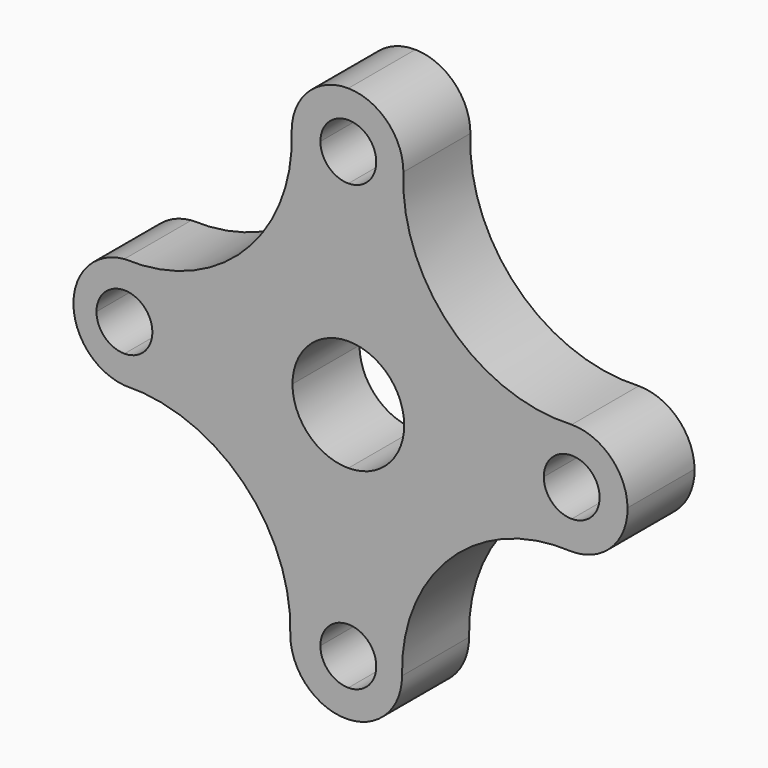
from build123d import *

# Parameters (mm, degrees)
F1_DEPTH = 19.05


with BuildPart() as f1:
    # F0 (on Front) → F1 (new body)
    with BuildSketch(Plane.XZ):
        with BuildLine():
            Line((44.433185, 0), (12.7, 0))
            ThreePointArc((12.7, 0), (8.980256, -8.980256), (0, -12.7))
            Line((0, -12.7), (0, -43.964499))
            ThreePointArc((0, -43.964499), (4.490128, -45.824371), (6.35, -50.314499))
            Line((6.35, -50.314499), (12.214499, -50.314499))
            ThreePointArc((12.214499, -50.314499), (23.286426, -23.137993), (50.783185, -12.887225))
            Line((50.783185, -12.887225), (50.783185, -6.35))
            ThreePointArc((50.783185, -6.35), (46.293057, -4.490128), (44.433185, 0))
        make_face()
        with BuildLine():
            ThreePointArc((0, 12.7), (8.980256, 8.980256), (12.7, 0))
            Line((12.7, 0), (44.433185, 0))
            ThreePointArc((44.433185, 0), (46.293057, 4.490128), (50.783185, 6.35))
            Line((50.783185, 6.35), (50.783185, 12.512775))
            ThreePointArc((50.783185, 12.512775), (23.230066, 23.111098), (12.520352, 50.621112))
            Line((12.520352, 50.621112), (6.35, 50.621112))
            ThreePointArc((6.35, 50.621112), (4.490128, 46.130984), (0, 44.271112))
            Line((0, 44.271112), (0, 12.7))
        make_face()
        with BuildLine():
            ThreePointArc((-12.7, 0), (-8.980256, 8.980256), (0, 12.7))
            Line((0, 12.7), (0, 44.271112))
            ThreePointArc((0, 44.271112), (-4.490128, 46.130984), (-6.35, 50.621112))
            Line((-6.35, 50.621112), (-12.879648, 50.621112))
            ThreePointArc((-12.879648, 50.621112), (-23.542161, 23.261338), (-50.902573, 12.600462))
            Line((-50.902573, 12.600462), (-50.902573, 6.35))
            ThreePointArc((-50.902573, 6.35), (-46.412445, 4.490128), (-44.552573, 0))
            Line((-44.552573, 0), (-12.7, 0))
        make_face()
        with BuildLine():
            Line((0, -43.964499), (0, -12.7))
            ThreePointArc((0, -12.7), (-8.980256, -8.980256), (-12.7, 0))
            Line((-12.7, 0), (-44.552573, 0))
            ThreePointArc((-44.552573, 0), (-46.412445, -4.490128), (-50.902573, -6.35))
            Line((-50.902573, -6.35), (-50.902573, -12.70329))
            ThreePointArc((-50.902573, -12.70329), (-23.898918, -23.34085), (-13.185501, -50.314499))
            Line((-13.185501, -50.314499), (-6.35, -50.314499))
            ThreePointArc((-6.35, -50.314499), (-4.490128, -45.824371), (0, -43.964499))
        make_face()
        with BuildLine():
            Line((50.783185, 12.512775), (50.783185, 6.35))
            ThreePointArc((50.783185, 6.35), (55.273313, 4.490128), (57.133185, 0))
            Line((57.133185, 0), (63.481805, 0))
            ThreePointArc((63.481805, 0), (59.697001, 8.858983), (50.783185, 12.512775))
        make_face()
        with BuildLine():
            ThreePointArc((57.133185, 0), (55.273313, -4.490128), (50.783185, -6.35))
            Line((50.783185, -6.35), (50.783185, -12.887225))
            ThreePointArc((50.783185, -12.887225), (59.829393, -9.101041), (63.481805, 0))
            Line((63.481805, 0), (57.133185, 0))
        make_face()
        with BuildLine():
            Line((-12.879648, 50.621112), (-6.35, 50.621112))
            ThreePointArc((-6.35, 50.621112), (-4.490128, 55.11124), (0, 56.971112))
            Line((0, 56.971112), (0, 63.319841))
            ThreePointArc((0, 63.319841), (-9.096163, 59.66466), (-12.879648, 50.621112))
        make_face()
        with BuildLine():
            ThreePointArc((0, 56.971112), (4.490128, 55.11124), (6.35, 50.621112))
            Line((6.35, 50.621112), (12.520352, 50.621112))
            ThreePointArc((12.520352, 50.621112), (8.8639, 59.537626), (0, 63.319841))
            Line((0, 63.319841), (0, 56.971112))
        make_face()
        with BuildLine():
            Line((12.214499, -50.314499), (6.35, -50.314499))
            ThreePointArc((6.35, -50.314499), (4.490128, -54.804627), (0, -56.664499))
            Line((0, -56.664499), (0, -63.005216))
            ThreePointArc((0, -63.005216), (8.664796, -59.121432), (12.214499, -50.314499))
        make_face()
        with BuildLine():
            ThreePointArc((0, -56.664499), (-4.490128, -54.804627), (-6.35, -50.314499))
            Line((-6.35, -50.314499), (-13.185501, -50.314499))
            ThreePointArc((-13.185501, -50.314499), (-9.292434, -59.464796), (0, -63.005216))
            Line((0, -63.005216), (0, -56.664499))
        make_face()
        with BuildLine():
            ThreePointArc((-57.252573, 0), (-55.392701, 4.490128), (-50.902573, 6.35))
            Line((-50.902573, 6.35), (-50.902573, 12.600462))
            ThreePointArc((-50.902573, 12.600462), (-59.143267, 8.548377), (-62.497918, 0))
            Line((-62.497918, 0), (-57.252573, 0))
        make_face()
        with BuildLine():
            Line((-50.902573, -12.70329), (-50.902573, -6.35))
            ThreePointArc((-50.902573, -6.35), (-55.392701, -4.490128), (-57.252573, 0))
            Line((-57.252573, 0), (-62.497918, 0))
            ThreePointArc((-62.497918, 0), (-59.178005, -8.613301), (-50.902573, -12.70329))
        make_face()
    extrude(amount=F1_DEPTH)


solid = f1.part
